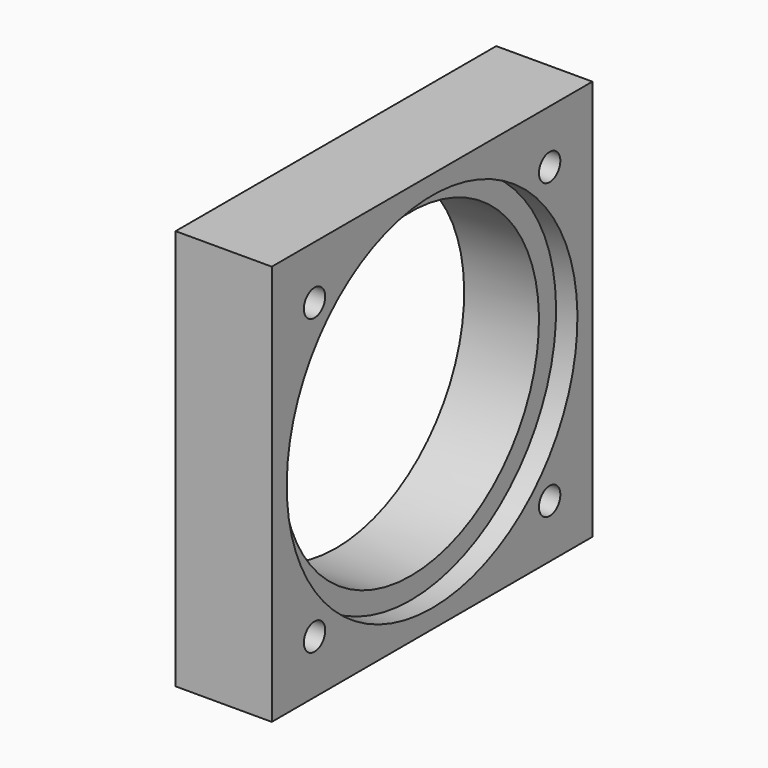
from build123d import *

# Parameters (mm, degrees)
SKETCH033_W             = 75
SKETCH033_H             = 75
PAD011_DEPTH            = 18
SKETCH034_R             = 30
SKETCH034_R_2           = 2.5
POCKET022_DEPTH         = 18
SKETCH035_R             = 34
POCKET023_DEPTH         = 4
BODY012_PLACEMENT_ANGLE = 90


with BuildPart() as part:
    # Sketch033 → Pad011 (new body)
    with BuildSketch(Plane.XY):
        Rectangle(SKETCH033_W, SKETCH033_H)
    extrude(amount=PAD011_DEPTH)

    # Sketch034 (on Face6 of Pad011) → Pocket022 (cut)
    with BuildSketch(Plane.XY.offset(18)):
        Circle(SKETCH034_R)
        with Locations((-27.5, 27.5)):
            Circle(SKETCH034_R_2)
        with Locations((27.5, 27.5)):
            Circle(SKETCH034_R_2)
        with Locations((27.5, -27.5)):
            Circle(SKETCH034_R_2)
        with Locations((-27.5, -27.5)):
            Circle(SKETCH034_R_2)
    extrude(amount=-POCKET022_DEPTH, mode=Mode.SUBTRACT)

    # Sketch035 (on Face5 of Pocket022) → Pocket023 (cut)
    with BuildSketch(Plane.XY.offset(18)):
        Circle(SKETCH035_R)
    extrude(amount=-POCKET023_DEPTH, mode=Mode.SUBTRACT)


with BuildPart() as part_1:
    # Body012 placement: moved
    add(part.part.moved(Location((-149, 252, 37.5))).rotate(Axis((-149, 252, 37.5), (0, 1, 0)), BODY012_PLACEMENT_ANGLE))


solid = part_1.part
